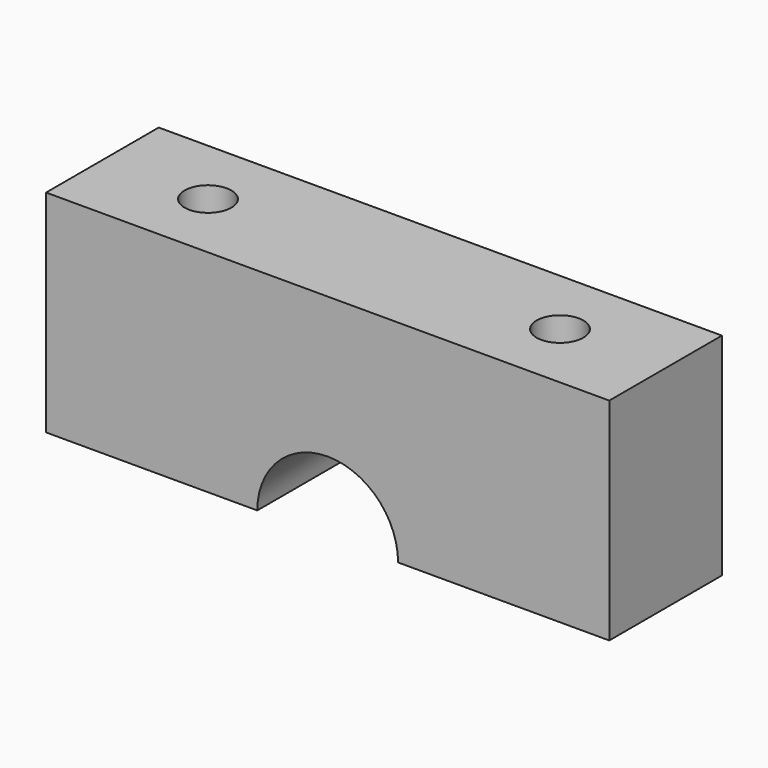
from build123d import *

# Parameters (mm, degrees)
F1_DEPTH = 25.4
F3_D     = 8.4328


with BuildPart() as f1:
    # F0 (on Front) → F1 (new body)
    with BuildSketch(Plane.XZ):
        with BuildLine():
            Line((0, 38.1), (0, 0))
            Line((0, 0), (38.1, 0))
            ThreePointArc((38.1, 0), (50.8, 12.7), (63.5, 0))
            Line((63.5, 0), (101.6, 0))
            Line((101.6, 0), (101.6, 38.1))
            Line((101.6, 38.1), (0, 38.1))
        make_face()
    extrude(amount=F1_DEPTH)

    # F3 (through all)
    with Locations(Plane.XY.offset(38.1)):
        with Locations((19.05, -12.7), (82.55, -12.7)):
            Hole(F3_D / 2)


solid = f1.part
